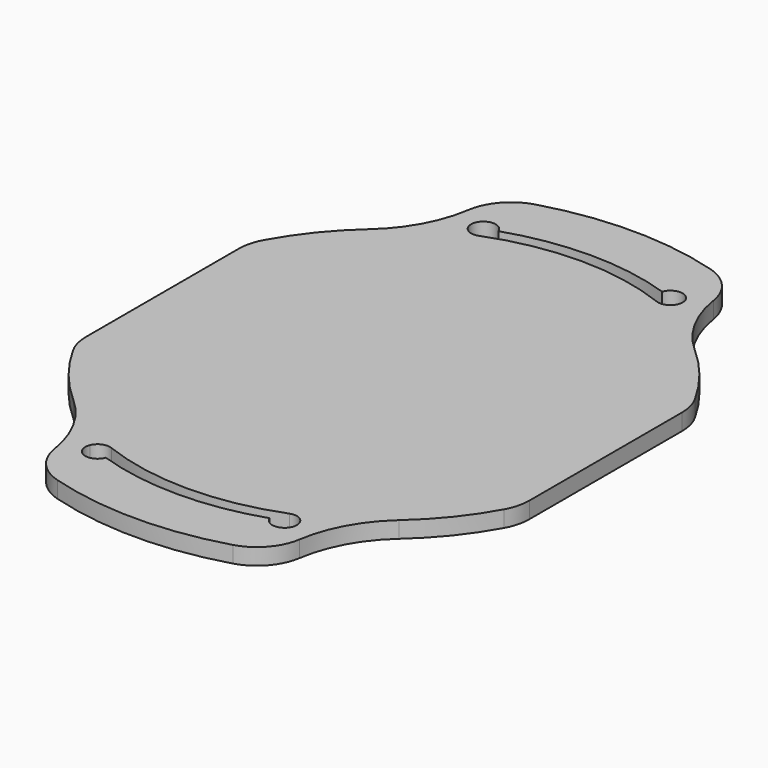
from build123d import *

# Parameters (mm, degrees)
F1_DEPTH = 2
F2_R     = 6
F3_R     = 15


with BuildPart() as f1:
    # F0 (on Top) → F1 (new body)
    with BuildSketch(Plane.XY):
        with BuildLine():
            Line((15, 27.6992779689), (15, 34.8053157432))
            ThreePointArc((15, 34.8053157432), (0, 37.9000000526), (-15, 34.8053157432))
            Line((-15, 34.8053157432), (-15, 27.6992779689))
            ThreePointArc((-15, 27.6992779689), (-13.8963378037, 28.2690961236), (-12.771069404, 28.7949611265))
            ThreePointArc((-12.771069404, 28.7949611265), (-11.9279702901, 30.7688726599), (-9.9746921233, 29.8790146599))
            ThreePointArc((-9.9746921233, 29.8790146599), (0, 31.5), (9.9746921233, 29.8790146599))
            ThreePointArc((9.9746921233, 29.8790146599), (11.6440081906, 30.8478948191), (12.8857898224, 29.370287539))
            ThreePointArc((12.8857898224, 29.370287539), (12.8568301638, 29.0769612466), (12.771069404, 28.7949611265))
            ThreePointArc((12.771069404, 28.7949611265), (13.8963378037, 28.2690961236), (15, 27.6992779689))
        make_face()
        with BuildLine():
            ThreePointArc((-12.771069404, 28.7949611265), (-13.8963378037, 28.2690961236), (-15, 27.6992779689))
            Line((-15, 27.6992779689), (-15, 25.9807621135))
            ThreePointArc((-15, 25.9807621135), (-12.9600924591, 27.0561638717), (-10.8436093232, 27.9717024302))
            ThreePointArc((-10.8436093232, 27.9717024302), (-11.9749780232, 27.9908466145), (-12.771069404, 28.7949611265))
        make_face()
        with BuildLine():
            Line((15, 25.9807621135), (15, 27.6992779689))
            ThreePointArc((15, 27.6992779689), (13.8963378037, 28.2690961236), (12.771069404, 28.7949611265))
            ThreePointArc((12.771069404, 28.7949611265), (11.9749780416, 27.9908466224), (10.8436093607, 27.9717024157))
            ThreePointArc((10.8436093607, 27.9717024157), (12.9600924772, 27.056163863), (15, 25.9807621135))
        make_face()
        with BuildLine():
            Line((-15, -27.6992779689), (-15, -34.8053157432))
            ThreePointArc((-15, -34.8053157432), (0, -37.9000000526), (15, -34.8053157432))
            Line((15, -34.8053157432), (15, -27.6992779689))
            ThreePointArc((15, -27.6992779689), (13.8963378037, -28.2690961236), (12.771069404, -28.7949611265))
            ThreePointArc((12.771069404, -28.7949611265), (12.8568301638, -29.0769612466), (12.8857898224, -29.370287539))
            ThreePointArc((12.8857898224, -29.370287539), (11.6440081906, -30.8478948191), (9.9746921233, -29.8790146599))
            ThreePointArc((9.9746921233, -29.8790146599), (0, -31.5), (-9.9746921233, -29.8790146599))
            ThreePointArc((-9.9746921233, -29.8790146599), (-11.9279702901, -30.7688726599), (-12.771069404, -28.7949611265))
            ThreePointArc((-12.771069404, -28.7949611265), (-13.8963378037, -28.2690961236), (-15, -27.6992779689))
        make_face()
        with BuildLine():
            Line((-15, -25.9807621135), (-15, -27.6992779689))
            ThreePointArc((-15, -27.6992779689), (-13.8963378037, -28.2690961236), (-12.771069404, -28.7949611265))
            ThreePointArc((-12.771069404, -28.7949611265), (-11.9749780659, -27.9908466327), (-10.8436094098, -27.9717023967))
            ThreePointArc((-10.8436094098, -27.9717023967), (-12.960092501, -27.0561638516), (-15, -25.9807621135))
        make_face()
        with BuildLine():
            ThreePointArc((12.771069404, -28.7949611265), (13.8963378037, -28.2690961236), (15, -27.6992779689))
            Line((15, -27.6992779689), (15, -25.9807621135))
            ThreePointArc((15, -25.9807621135), (12.9600924534, -27.0561638744), (10.8436093114, -27.9717024348))
            ThreePointArc((10.8436093114, -27.9717024348), (11.9749780173, -27.990846612), (12.771069404, -28.7949611265))
        make_face()
        with BuildLine():
            ThreePointArc((27, 13.0766968306), (21.968812558, 20.4296665365), (15, 25.9807621135))
            ThreePointArc((15, 25.9807621135), (12.9600924772, 27.056163863), (10.8436093607, 27.9717024157))
            ThreePointArc((10.8436093607, 27.9717024157), (2.01e-08, 30), (-10.8436093232, 27.9717024302))
            ThreePointArc((-10.8436093232, 27.9717024302), (-12.9600924591, 27.0561638717), (-15, 25.9807621135))
            ThreePointArc((-15, 25.9807621135), (-21.968812558, 20.4296665365), (-27, 13.0766968306))
            Line((-27, 13.0766968306), (-27, -13.0766968306))
            ThreePointArc((-27, -13.0766968306), (-21.968812558, -20.4296665365), (-15, -25.9807621135))
            ThreePointArc((-15, -25.9807621135), (-12.960092501, -27.0561638516), (-10.8436094098, -27.9717023967))
            ThreePointArc((-10.8436094098, -27.9717023967), (-5.28e-08, -30), (10.8436093114, -27.9717024348))
            ThreePointArc((10.8436093114, -27.9717024348), (12.9600924534, -27.0561638744), (15, -25.9807621135))
            ThreePointArc((15, -25.9807621135), (21.968812558, -20.4296665365), (27, -13.0766968306))
            Line((27, -13.0766968306), (27, 13.0766968306))
        make_face()
    extrude(amount=F1_DEPTH)

    # F2
    f2_edges = [f1.edges().sort_by_distance(p)[0] for p in [
        (-15, -34.805316, 1),
        (15, -34.805316, 1),
        (15, 34.805316, 1),
        (-15, 34.805316, 1),
        (27, 13.076697, 1),
        (27, -13.076697, 1),
        (-27, 13.076697, 1),
        (-27, -13.076697, 1),
    ]]
    fillet(f2_edges, radius=F2_R)

    # F3
    f3_edges = [f1.edges().sort_by_distance(p)[0] for p in [
        (-15, -25.980762, 1),
        (15, -25.980762, 1),
        (15, 25.980762, 1),
        (-15, 25.980762, 1),
    ]]
    fillet(f3_edges, radius=F3_R)


solid = f1.part
